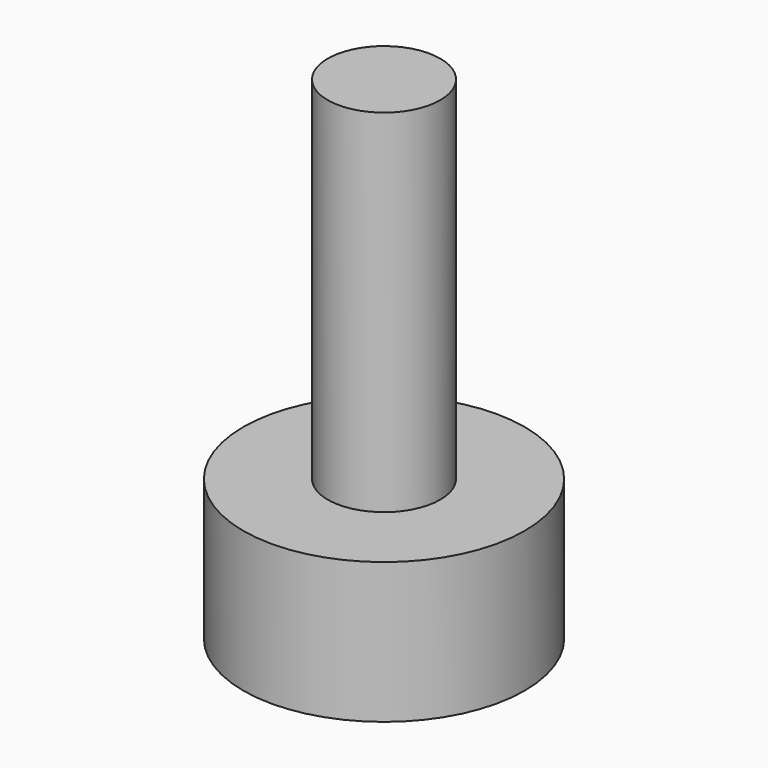
from build123d import *

# Parameters (mm, degrees)
CYLINDER001_R     = 2
CYLINDER001_DEPTH = 2
CYLINDER002_R     = 0.8
CYLINDER002_DEPTH = 7


with BuildPart() as cylinder001:
    # Cylinder001 → Cylinder001 (new body)
    with BuildSketch(Plane.XY):
        Circle(CYLINDER001_R)
    extrude(amount=CYLINDER001_DEPTH)


with BuildPart() as m2_bolt:
    # Cylinder002 → Cylinder002 (new body)
    with BuildSketch(Plane.XY):
        Circle(CYLINDER002_R)
    extrude(amount=CYLINDER002_DEPTH)

    # Fusion001005003003: union Cylinder001
    add(cylinder001.part)


solid = m2_bolt.part
